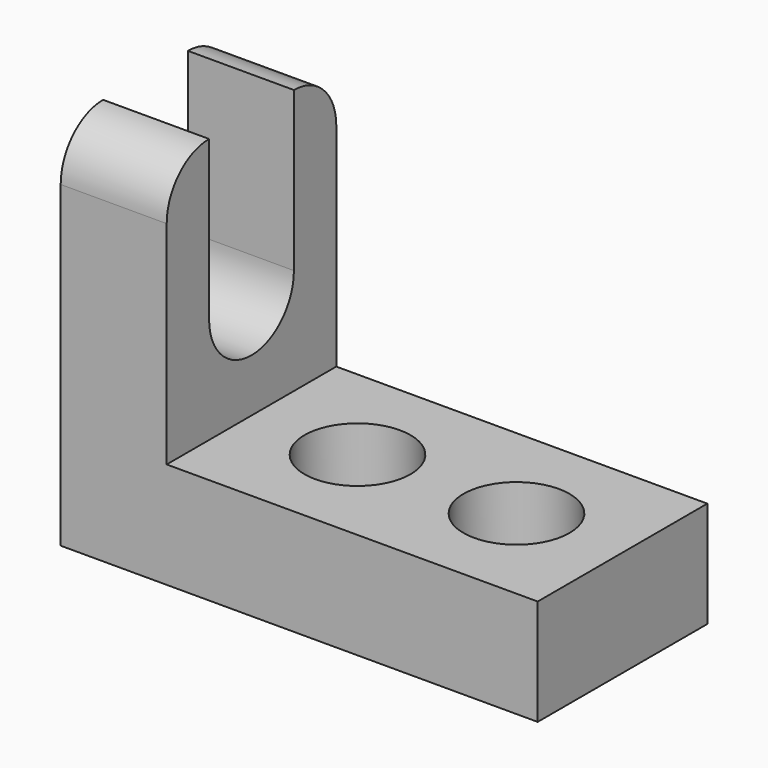
from build123d import *

# Parameters (mm, degrees)
F0_W     = 57.15
F0_H     = 44.45
F1_DEPTH = 25.4
F2_W     = 44.45
F2_H     = 31.75
F3_DEPTH = 25.4
F5_DEPTH = 25.4
F6_R     = 6.35
F7_DEPTH = 25.4


with BuildPart() as f1:
    # F0 (on Front) → F1 (new body)
    with BuildSketch(Plane.XZ):
        with Locations((28.575, 22.225)):
            Rectangle(F0_W, F0_H)
    extrude(amount=F1_DEPTH)

    # F2 (on face) → F3 (cut)
    with BuildSketch(Plane.XZ.offset(25.4)):
        with Locations((34.925, 28.575)):
            Rectangle(F2_W, F2_H)
    extrude(amount=-F3_DEPTH, mode=Mode.SUBTRACT)

    # F4 (on face) → F5 (cut)
    with BuildSketch(Plane.YZ.offset(12.7)):
        with BuildLine():
            ThreePointArc((-25.4, 38.1), (-23.540128, 42.590128), (-19.05, 44.45))
            Line((-19.05, 44.45), (-25.4, 44.45))
            Line((-25.4, 44.45), (-25.4, 38.1))
        make_face()
        with BuildLine():
            ThreePointArc((-19.05, 25.4), (-12.7, 31.75), (-6.35, 25.4))
            Line((-6.35, 25.4), (-6.35, 44.45))
            Line((-6.35, 44.45), (-19.05, 44.45))
            Line((-19.05, 44.45), (-19.05, 25.4))
        make_face()
        with BuildLine():
            Line((-12.7, 25.4), (-6.35, 25.4))
            ThreePointArc((-6.35, 25.4), (-12.7, 31.75), (-19.05, 25.4))
            Line((-19.05, 25.4), (-12.7, 25.4))
        make_face()
        with BuildLine():
            ThreePointArc((-19.05, 25.4), (-12.7, 19.05), (-6.35, 25.4))
            Line((-6.35, 25.4), (-12.7, 25.4))
            Line((-12.7, 25.4), (-19.05, 25.4))
        make_face()
        with BuildLine():
            Line((0, 44.45), (-6.35, 44.45))
            ThreePointArc((-6.35, 44.45), (-1.859872, 42.590128), (0, 38.1))
            Line((0, 38.1), (0, 44.45))
        make_face()
    extrude(amount=-F5_DEPTH, mode=Mode.SUBTRACT)

    # F6 (on face) → F7 (cut)
    with BuildSketch(Plane.XY.offset(12.7)):
        with Locations((25.4, -12.7)):
            Circle(F6_R)
        with Locations((44.45, -12.7)):
            Circle(F6_R)
    extrude(amount=-F7_DEPTH, mode=Mode.SUBTRACT)


solid = f1.part
